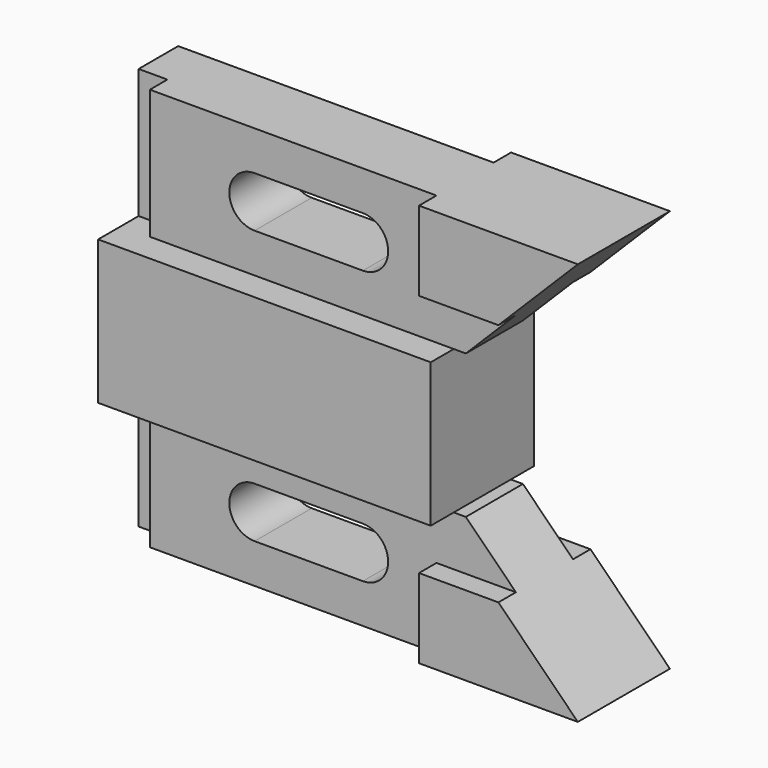
from build123d import *

# Parameters (mm, degrees)
F0_W           = 73.406
F0_H           = 31.75
F6_DEPTH       = 14.224
F6_DEPTH_BACK  = 14.224
F7_DEPTH       = 7.874
F7_DEPTH_BACK  = 7.874
F8_DEPTH       = 12.7
F9_DEPTH       = 12.7
F9_DEPTH_BACK  = 12.7
F5_W           = 6.35
F5_H           = 28.575
F10_DEPTH      = 25.4
F11_DEPTH      = 14.224
F11_DEPTH_BACK = 14.224
F12_DEPTH      = 7.874
F12_DEPTH_BACK = 7.874
F13_DEPTH      = 12.7
F13_DEPTH_BACK = 12.7
F14_DEPTH      = 12.7
F14_DEPTH_BACK = 12.7
F15_DEPTH      = 9.652


with BuildPart() as f6:
    # F0 (on Front) → F6 (new body, two sides)
    with BuildSketch(Plane.XZ) as f6_sk:
        Rectangle(F0_W, F0_H)
    extrude(amount=-F6_DEPTH)
    extrude(f6_sk.sketch, amount=F6_DEPTH_BACK)

    # F0 (on Front) → F7 (join, two sides)
    with BuildSketch(Plane.XZ) as f7_sk:
        Polygon((-36.703, 44.45), (-36.703, 15.875), (36.703, 15.875), (39.37, 15.875), (67.945, 44.45), align=None)
        Polygon((36.703, -15.875), (-36.703, -15.875), (-36.703, -44.45), (67.945, -44.45), (39.37, -15.875), align=None)
    extrude(amount=-F7_DEPTH)
    extrude(f7_sk.sketch, amount=F7_DEPTH_BACK)

    # F1 (on Front) → F8 (cut, symmetric)
    with BuildSketch(Plane.XZ):
        with BuildLine():
            ThreePointArc((16.637, 24.5745), (22.225, 30.1625), (16.637, 35.7505))
            Line((16.637, 35.7505), (-7.239, 35.7505))
            ThreePointArc((-7.239, 35.7505), (-12.827, 30.1625), (-7.239, 24.5745))
            Line((-7.239, 24.5745), (16.637, 24.5745))
        make_face()
        with BuildLine():
            Line((-7.239, -35.7505), (16.637, -35.7505))
            ThreePointArc((16.637, -35.7505), (22.225, -30.1625), (16.637, -24.5745))
            Line((16.637, -24.5745), (-7.239, -24.5745))
            ThreePointArc((-7.239, -24.5745), (-12.827, -30.1625), (-7.239, -35.7505))
        make_face()
    extrude(amount=F8_DEPTH, both=True, mode=Mode.SUBTRACT)

    # F2 (on Front) → F9 (join, two sides)
    with BuildSketch(Plane.XZ) as f9_sk:
        Polygon((67.945, 44.45), (32.893, 44.45), (32.893, 26.924), (50.419, 26.924), align=None)
        Polygon((32.893, -44.45), (67.945, -44.45), (50.419, -26.924), (32.893, -26.924), align=None)
    extrude(amount=F9_DEPTH)
    extrude(f9_sk.sketch, amount=-F9_DEPTH_BACK)

    # F5 (on line) → F10 (cut)
    with BuildSketch(Plane.XZ.offset(3.048)):
        with Locations((-33.528, -30.1625)):
            Rectangle(F5_W, F5_H)
        with Locations((-33.528, 30.1625)):
            Rectangle(F5_W, F5_H)
    extrude(amount=F10_DEPTH, mode=Mode.SUBTRACT)



with BuildPart() as f11:
    # F0 (on Front) → F11 (new body, two sides)
    with BuildSketch(Plane.XZ) as f11_sk:
        Rectangle(F0_W, F0_H)
    extrude(amount=F11_DEPTH)
    extrude(f11_sk.sketch, amount=-F11_DEPTH_BACK)


with BuildPart() as f6_1:
    add(f6.part)

    add(f11.part)  # F12 merges F11
    # F0 (on Front) → F12 (join, two sides)
    with BuildSketch(Plane.XZ) as f12_sk:
        Polygon((-36.703, 44.45), (-36.703, 15.875), (36.703, 15.875), (39.37, 15.875), (67.945, 44.45), align=None)
        Polygon((36.703, -15.875), (-36.703, -15.875), (-36.703, -44.45), (67.945, -44.45), (39.37, -15.875), align=None)
    extrude(amount=F12_DEPTH)
    extrude(f12_sk.sketch, amount=-F12_DEPTH_BACK)

    # F1 (on Front) → F13 (cut, two sides)
    with BuildSketch(Plane.XZ) as f13_sk:
        with BuildLine():
            ThreePointArc((16.637, 24.5745), (22.225, 30.1625), (16.637, 35.7505))
            Line((16.637, 35.7505), (-7.239, 35.7505))
            ThreePointArc((-7.239, 35.7505), (-12.827, 30.1625), (-7.239, 24.5745))
            Line((-7.239, 24.5745), (16.637, 24.5745))
        make_face()
        with BuildLine():
            Line((-7.239, -35.7505), (16.637, -35.7505))
            ThreePointArc((16.637, -35.7505), (22.225, -30.1625), (16.637, -24.5745))
            Line((16.637, -24.5745), (-7.239, -24.5745))
            ThreePointArc((-7.239, -24.5745), (-12.827, -30.1625), (-7.239, -35.7505))
        make_face()
    extrude(amount=-F13_DEPTH, mode=Mode.SUBTRACT)
    extrude(f13_sk.sketch, amount=F13_DEPTH_BACK, mode=Mode.SUBTRACT)

    # F2 (on Front) → F14 (join, two sides)
    with BuildSketch(Plane.XZ) as f14_sk:
        Polygon((67.945, 44.45), (32.893, 44.45), (32.893, 26.924), (50.419, 26.924), align=None)
        Polygon((32.893, -44.45), (67.945, -44.45), (50.419, -26.924), (32.893, -26.924), align=None)
    extrude(amount=F14_DEPTH)
    extrude(f14_sk.sketch, amount=-F14_DEPTH_BACK)

    # F5 (on line) → F15 (cut, through all)
    with BuildSketch(Plane.XZ.offset(3.048)):
        with Locations((-33.528, 30.1625)):
            Rectangle(F5_W, F5_H)
        with Locations((-33.528, -30.1625)):
            Rectangle(F5_W, F5_H)
    extrude(amount=F15_DEPTH, mode=Mode.SUBTRACT)


solid = f6_1.part
